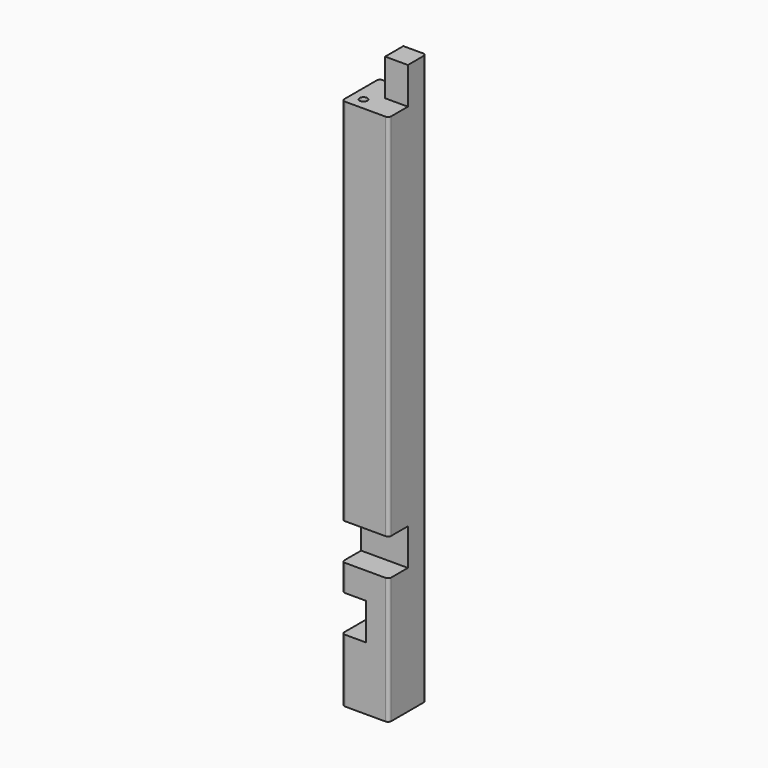
from build123d import *

# Parameters (mm, degrees)
F0_W      = 74
F0_H      = 74
F1_DEPTH  = 900
F2_W      = 74
F2_H      = 58
F4_DEPTH  = 38
F3_W      = 74
F3_H      = 58
F5_DEPTH  = 38
F7_D      = 12
F7_DEPTH  = 40
F7_TIP    = 3.6051637142
F8_W      = 74
F8_H      = 58
F9_DEPTH  = 38
F10_W     = 74
F10_H     = 58
F11_DEPTH = 38
F12_R     = 5


with BuildPart() as f1:
    # F0 (on Top) → F1 (new body)
    with BuildSketch(Plane.XY):
        Rectangle(F0_W, F0_H)
    extrude(amount=-F1_DEPTH)

    # F2 (on face) → F4 (cut)
    with BuildSketch(Plane.XZ.offset(37)):
        with Locations((0, -29)):
            Rectangle(F2_W, F2_H)
    extrude(amount=-F4_DEPTH, mode=Mode.SUBTRACT)

    # F3 (on face) → F5 (cut)
    with BuildSketch(Plane(origin=(-37, 0, 0), x_dir=(0, -1, 0), z_dir=(-1, 0, 0))):
        with Locations((0, -29)):
            Rectangle(F3_W, F3_H)
    extrude(amount=-F5_DEPTH, mode=Mode.SUBTRACT)

    # F7
    with Locations(Plane.XY.offset(-58)):
        with Locations((-18, -18)):
            Hole(F7_D / 2, depth=F7_DEPTH)
            with Locations((0, 0, -(F7_DEPTH + F7_TIP / 2))):  # 118° drill point
                Cone(0, F7_D / 2, F7_TIP, mode=Mode.SUBTRACT)

    # F8 (on face) → F9 (cut)
    with BuildSketch(Plane(origin=(-37, 0, 0), x_dir=(0, -1, 0), z_dir=(-1, 0, 0))):
        with Locations((0, -771)):
            Rectangle(F8_W, F8_H)
    extrude(amount=-F9_DEPTH, mode=Mode.SUBTRACT)

    # F10 (on face) → F11 (cut)
    with BuildSketch(Plane.XZ.offset(37)):
        with Locations((0, -671)):
            Rectangle(F10_W, F10_H)
    extrude(amount=-F11_DEPTH, mode=Mode.SUBTRACT)

    # F12
    f12_edges = [f1.edges().sort_by_distance(p)[0] for p in [
        (-37, -37, -850),
        (-37, -37, -721),
        (-37, -37, -350),
        (-37, 37, -400),
        (-37, 37, -850),
        (37, -37, -800),
        (37, -37, -350),
        (37, 37, -450),
    ]]
    fillet(f12_edges, radius=F12_R)


solid = f1.part
